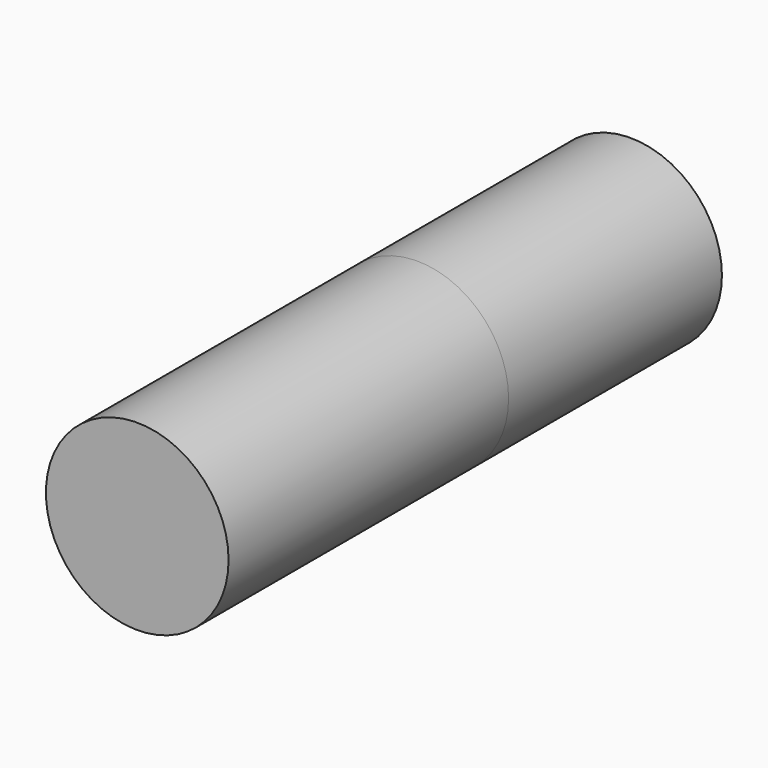
from build123d import *

# Parameters (mm, degrees)
F0_R     = 34.798
F1_DEPTH = 6.35
F2_DEPTH = 25.4
F3_DEPTH = 101.6
F4_DEPTH = 101.6


with BuildPart() as f1:
    # F0 (on Front) → F1 (new body)
    with BuildSketch(Plane.XZ):
        Circle(F0_R)
    extrude(amount=F1_DEPTH)

    # F2 (add): a face of the model
    f2_faces = [f1.faces().sort_by_distance(p)[0] for p in [
        (0, -6.35, 0),
    ]]
    extrude(f2_faces, amount=F2_DEPTH)

    # F3 (add): a face of the model
    f3_faces = [f1.faces().sort_by_distance(p)[0] for p in [
        (0, -31.75, 0),
    ]]
    extrude(f3_faces, amount=F3_DEPTH)

    # F4 (add): a face of the model
    f4_faces = [f1.faces().sort_by_distance(p)[0] for p in [
        (0, 0, 0),
    ]]
    extrude(f4_faces, amount=F4_DEPTH)


solid = f1.part
